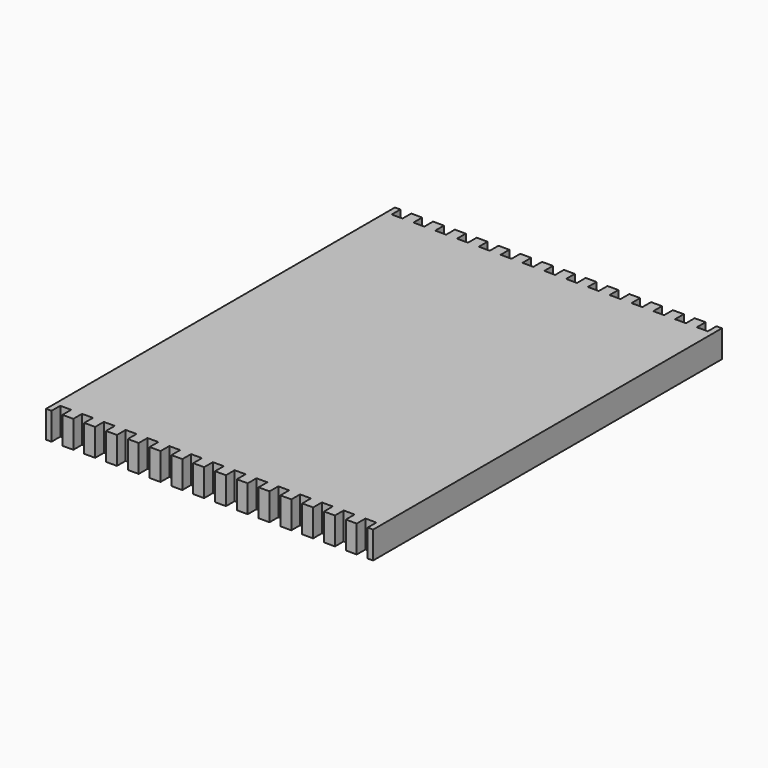
from build123d import *

# Parameters (mm, degrees)
F1_DEPTH = 25


with BuildPart() as f1:
    # F0 (on Top) → F1 (new body)
    with BuildSketch(Plane.XY):
        Polygon((145, -200), (150, -200), (150, 200), (145, 200), (145, 190), (135, 190), (135, 200), (125, 200), (125, 190), (115, 190), (115, 200), (105, 200), (105, 190), (95, 190), (95, 200), (85, 200), (85, 190), (75, 190), (75, 200), (65, 200), (65, 190), (55, 190), (55, 200), (45, 200), (45, 190), (35, 190), (35, 200), (25, 200), (25, 190), (15, 190), (15, 200), (5, 200), (5, 190), (-5, 190), (-5, 200), (-15, 200), (-15, 190), (-25, 190), (-25, 200), (-35, 200), (-35, 190), (-45, 190), (-45, 200), (-55, 200), (-55, 190), (-65, 190), (-65, 200), (-75, 200), (-75, 190), (-85, 190), (-85, 200), (-95, 200), (-95, 190), (-105, 190), (-105, 200), (-115, 200), (-115, 190), (-125, 190), (-125, 200), (-135, 200), (-135, 190), (-145, 190), (-145, 200), (-150, 200), (-150, -200), (-145, -200), (-145, -190), (-135, -190), (-135, -200), (-125, -200), (-125, -190), (-115, -190), (-115, -200), (-105, -200), (-105, -190), (-95, -190), (-95, -200), (-85, -200), (-85, -190), (-75, -190), (-75, -200), (-65, -200), (-65, -190), (-55, -190), (-55, -200), (-45, -200), (-45, -190), (-35, -190), (-35, -200), (-25, -200), (-25, -190), (-15, -190), (-15, -200), (-5, -200), (-5, -190), (5, -190), (5, -200), (15, -200), (15, -190), (25, -190), (25, -200), (35, -200), (35, -190), (45, -190), (45, -200), (55, -200), (55, -190), (65, -190), (65, -200), (75, -200), (75, -190), (85, -190), (85, -200), (95, -200), (95, -190), (105, -190), (105, -200), (115, -200), (115, -190), (125, -190), (125, -200), (135, -200), (135, -190), (145, -190), align=None)
    extrude(amount=F1_DEPTH)


solid = f1.part
